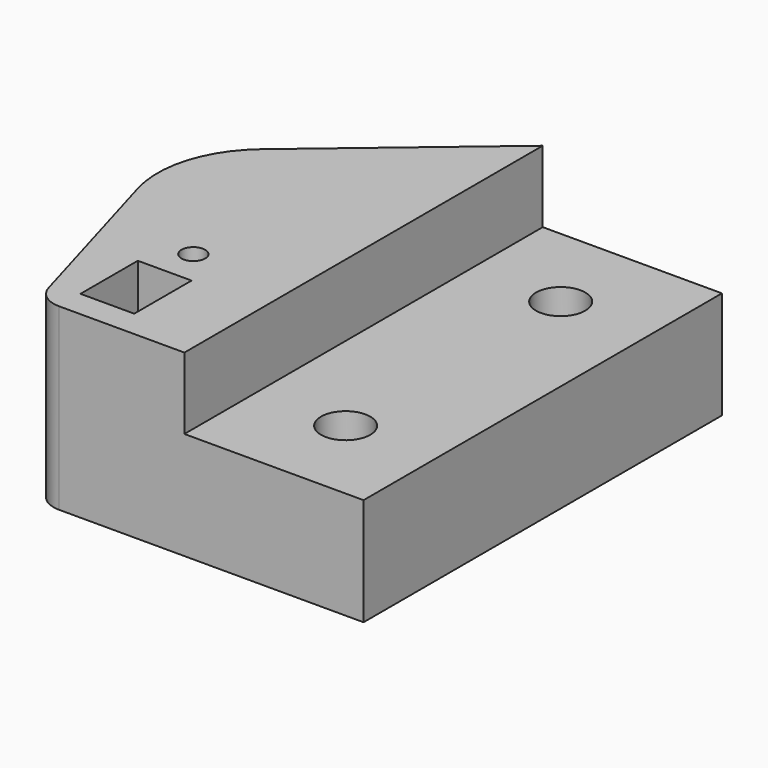
from build123d import *

# Parameters (mm, degrees)
SKETCH140_R          = 2.75
SKETCH140_R_2        = 1.3208
SKETCH140_W          = 6
SKETCH140_H          = 8
PAD083_DEPTH         = 20
POCKET048_DEPTH      = 14
SKETCH160_W          = 20
SKETCH160_H          = 20
POCKET059_DEPTH      = 25.001
POCKET059_DEPTH_BACK = 25.001


with BuildPart() as part:
    # Sketch140 → Pad083 (new body)
    with BuildSketch(Plane.XY):
        with BuildLine():
            Line((-28.743574, 9.167173), (-10, 25))
            Line((-10, 25), (10, 25))
            Line((10, 25), (10, -25))
            Line((10, -25), (-10, -25))
            Line((-10, -25), (-24, -25))
            ThreePointArc((-26.88165, -22.83432), (-25.802365, -24.398224), (-24, -25))
            Line((-32.526602, -3.337282), (-26.88165, -22.83432))
            ThreePointArc((-28.743574, 9.167173), (-32.485873, 3.474872), (-32.526602, -3.337282))
        make_face()
        with Locations((0, 15)):
            Circle(SKETCH140_R, mode=Mode.SUBTRACT)
        with Locations((0, -15)):
            Circle(SKETCH140_R, mode=Mode.SUBTRACT)
        with Locations((-21, -10)):
            Circle(SKETCH140_R_2, mode=Mode.SUBTRACT)
        with Locations((-21, -18)):
            Rectangle(SKETCH140_W, SKETCH140_H, mode=Mode.SUBTRACT)
    extrude(amount=PAD083_DEPTH)

    # Sketch141 → Pocket048 (cut)
    with BuildSketch(Plane.XY):
        with BuildLine():
            Line((-17.75, -8.660254), (-17.75, -22))
            Line((-17.75, -22), (-24.25, -22))
            Line((-24.25, -22), (-24.25, -8.660254))
            ThreePointArc((-17.75, -8.660254), (-21, 9.25), (-24.25, -8.660254))
        make_face()
    extrude(amount=POCKET048_DEPTH, mode=Mode.SUBTRACT)

    # Sketch160 → Pocket059 (cut, two sides)
    with BuildSketch(Plane.XZ) as pocket059_sk:
        with Locations((0, 22)):
            Rectangle(SKETCH160_W, SKETCH160_H)
    extrude(amount=-POCKET059_DEPTH, mode=Mode.SUBTRACT)
    extrude(pocket059_sk.sketch, amount=POCKET059_DEPTH_BACK, mode=Mode.SUBTRACT)


solid = part.part
